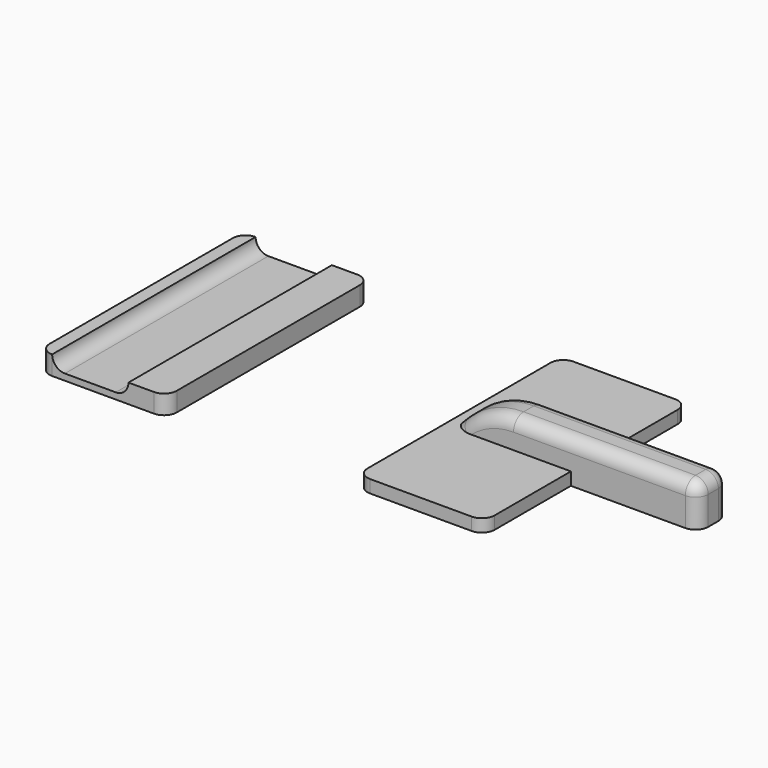
from build123d import *

# Parameters (mm, degrees)
BOX_W        = 20
BOX_H        = 40
BOX_DEPTH    = 2
FILLET_R     = 2
BOX001_W     = 40
BOX001_H     = 6
BOX001_DEPTH = 6.5
CHAMFER_SIZE = 6
FILLET001_R  = 12
FILLET002_R  = 2
FILLET003_R  = 2
BOX003_W     = 12
BOX003_H     = 40
BOX003_DEPTH = 3
FILLET005_R  = 2
BOX002_W     = 20
BOX002_H     = 40
BOX002_DEPTH = 3
FILLET004_R  = 2


with BuildPart() as base:
    # Box → Box (new body)
    with BuildSketch(Plane(origin=(-10, -20, 0), x_dir=(1, 0, 0), z_dir=(0, 0, 1))):
        with Locations((10, 20)):
            Rectangle(BOX_W, BOX_H)
    extrude(amount=BOX_DEPTH)

    # Fillet
    fillet_edges = [base.edges().sort_by_distance(p)[0] for p in [
        (-10, -20, 1),
        (-10, 20, 1),
        (10, -20, 1),
        (10, 20, 1),
    ]]
    fillet(fillet_edges, radius=FILLET_R)


with BuildPart() as top:
    # Box001 → Box001 (new body)
    with BuildSketch(Plane(origin=(-10, -3, 0), x_dir=(1, 0, 0), z_dir=(0, 0, 1))):
        with Locations((20, 3)):
            Rectangle(BOX001_W, BOX001_H)
    extrude(amount=BOX001_DEPTH)

    # Chamfer
    chamfer_edges = [top.edges().sort_by_distance(p)[0] for p in [
        (-10, 0, 6.5),
    ]]
    chamfer(chamfer_edges, length=CHAMFER_SIZE)

    # Fillet001
    fillet001_edges = [top.edges().sort_by_distance(p)[0] for p in [
        (-4, 0, 6.5),
    ]]
    fillet(fillet001_edges, radius=FILLET001_R)

    # Fillet002
    fillet002_edges = [top.edges().sort_by_distance(p)[0] for p in [
        (30, -3, 3.25),
        (30, 3, 3.25),
    ]]
    fillet(fillet002_edges, radius=FILLET002_R)

    # Fillet003
    fillet003_edges = [top.edges().sort_by_distance(p)[0] for p in [
        (14.485281, -3, 6.5),
    ]]
    fillet(fillet003_edges, radius=FILLET003_R)

    # Fusion: union Base
    add(base.part)


with BuildPart() as top_1:
    # Fusion placement: moved
    add(top.part.moved(Location((50, 0, 0))))


with BuildPart() as fillet005:
    # Box003 → Box003 (new body)
    with BuildSketch(Plane(origin=(-8, -20, 1), x_dir=(1, 0, 0), z_dir=(0, 0, 1))):
        with Locations((6, 20)):
            Rectangle(BOX003_W, BOX003_H)
    extrude(amount=BOX003_DEPTH)

    # Fillet005
    fillet005_edges = [fillet005.edges().sort_by_distance(p)[0] for p in [
        (-8, 0, 1),
        (4, 0, 1),
    ]]
    fillet(fillet005_edges, radius=FILLET005_R)


with BuildPart() as bottom:
    # Box002 → Box002 (new body)
    with BuildSketch(Plane(origin=(-10, -20, 0), x_dir=(1, 0, 0), z_dir=(0, 0, 1))):
        with Locations((10, 20)):
            Rectangle(BOX002_W, BOX002_H)
    extrude(amount=BOX002_DEPTH)

    # Fillet004
    fillet004_edges = [bottom.edges().sort_by_distance(p)[0] for p in [
        (-10, -20, 1.5),
        (-10, 20, 1.5),
        (10, -20, 1.5),
        (10, 20, 1.5),
    ]]
    fillet(fillet004_edges, radius=FILLET004_R)

    # Cut: cut Fillet005
    add(fillet005.part, mode=Mode.SUBTRACT)


solid = Compound([top_1.part, bottom.part])
